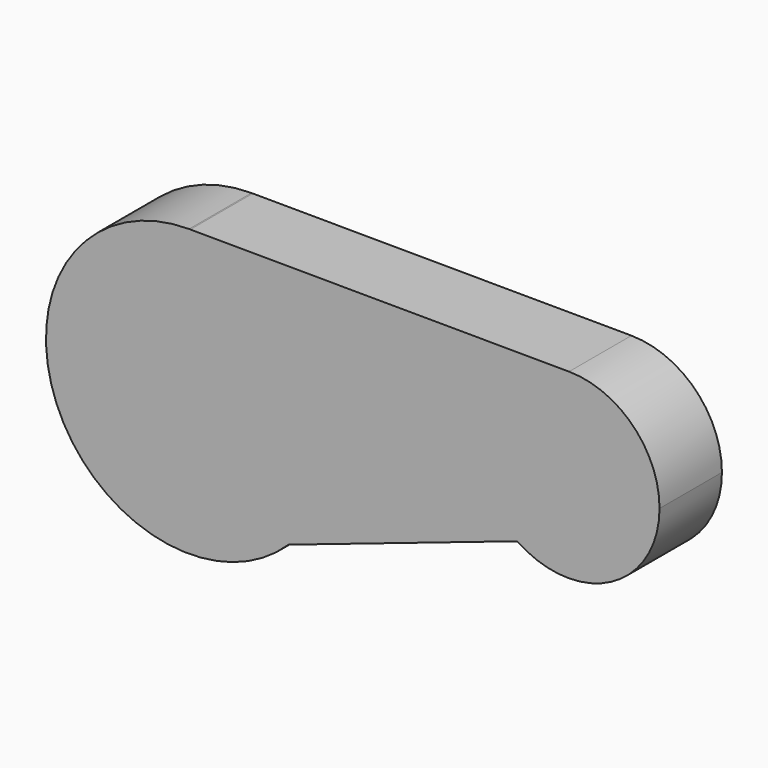
from build123d import *

# Parameters (mm, degrees)
F1_DEPTH = 38.1


with BuildPart() as f1:
    # F0 (on Front) → F1 (new body)
    with BuildSketch(Plane.XZ):
        with BuildLine():
            ThreePointArc((-48.564447, -60.954478), (-54.078042, -88.154653), (-69.748399, -111.060748))
            Line((-69.748399, -111.060748), (41.969208, -73.256539))
            ThreePointArc((41.969208, -73.256539), (24.58164, -23.316982), (67.255602, 7.911527))
            Line((67.255602, 7.911527), (-117.735768, 8.892225))
            ThreePointArc((-117.735768, 8.892225), (-68.783669, -11.803604), (-48.564447, -60.954478))
        make_face()
        with BuildLine():
            Line((-117.735768, 8.892225), (-118.352549, 8.895495))
            ThreePointArc((-118.352549, 8.895495), (-183.152212, -87.185076), (-69.748399, -111.060748))
            ThreePointArc((-69.748399, -111.060748), (-54.078042, -88.154653), (-48.564447, -60.954478))
            ThreePointArc((-48.564447, -60.954478), (-68.783669, -11.803604), (-117.735768, 8.892225))
        make_face()
        with BuildLine():
            ThreePointArc((67.255602, 7.911527), (24.58164, -23.316982), (41.969208, -73.256539))
            ThreePointArc((41.969208, -73.256539), (87.784071, -75.839938), (111.469962, -36.537848))
            ThreePointArc((111.469962, -36.537848), (98.53406, -5.190374), (67.255602, 7.911527))
        make_face()
    extrude(amount=F1_DEPTH)


solid = f1.part
